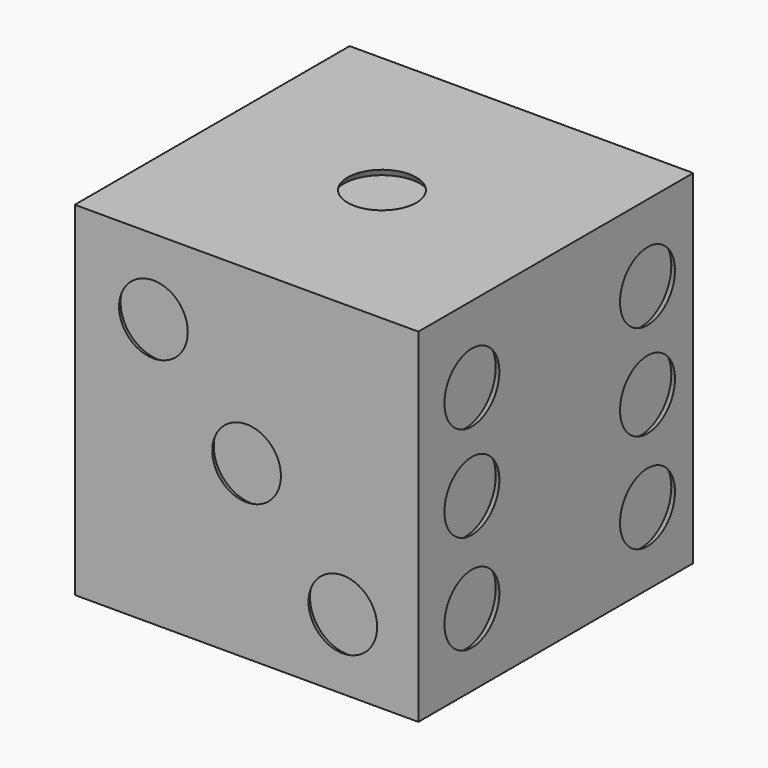
from build123d import *

# Parameters (mm, degrees)
F0_W     = 25.4
F0_H     = 25.4
F1_DEPTH = 25.4
F2_R     = 2.54
F3_DEPTH = 0.508
F3_TAPER = -30
F4_R     = 2.54
F5_DEPTH = 0.508
F5_TAPER = -30
F6_R     = 2.54
F7_DEPTH = 0.508
F7_TAPER = -30


with BuildPart() as f1:
    # F0 (on Front) → F1 (new body)
    with BuildSketch(Plane.XZ):
        Rectangle(F0_W, F0_H)
    extrude(amount=F1_DEPTH)

    # F2 (on face) → F3 (cut)
    with BuildSketch(Plane.XY.offset(12.7)):
        with Locations((0, -12.887516059)):
            Circle(F2_R)
    extrude(amount=-F3_DEPTH, taper=F3_TAPER, mode=Mode.SUBTRACT)

    # F4 (on face) → F5 (cut)
    with BuildSketch(Plane.XZ.offset(25.4)):
        with Locations((-6.8865797892, 7.1290839781)):
            Circle(F4_R)
        Circle(F4_R)
        with Locations((7.1149822325, -7.5177177787)):
            Circle(F4_R)
    extrude(amount=-F5_DEPTH, taper=F5_TAPER, mode=Mode.SUBTRACT)

    # F6 (on face) → F7 (cut)
    with BuildSketch(Plane.YZ.offset(12.7)):
        with Locations((-20.4508453608, 7.0542693138)):
            Circle(F6_R)
        with Locations((-20.4508453608, 0)):
            Circle(F6_R)
        with Locations((-20.4508453608, -7.3368661106)):
            Circle(F6_R)
        with Locations((-4.2245979421, -7.3368661106)):
            Circle(F6_R)
        with Locations((-4.2245979421, 0)):
            Circle(F6_R)
        with Locations((-4.2245979421, 7.0542693138)):
            Circle(F6_R)
    extrude(amount=-F7_DEPTH, taper=F7_TAPER, mode=Mode.SUBTRACT)


solid = f1.part
